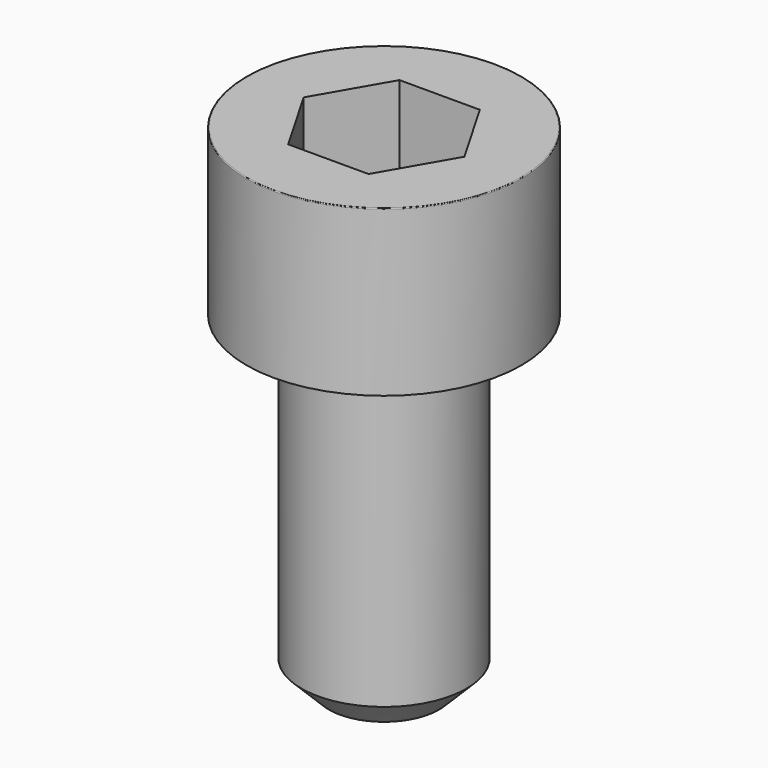
from build123d import *

# Parameters (mm, degrees)
POCKET_DEPTH = 5.06


with BuildPart() as part:
    # Sketch → Revolve (revolve)
    with BuildSketch(Plane.YZ):
        with BuildLine():
            Line((2.999, 0), (5, 0))
            Line((5, 0), (5, 5.97229))
            ThreePointArc((5, 5.97229), (4.991884, 5.991884), (4.97229, 6))
            Line((4.97229, 6), (0, 6))
            Line((0, -12), (0, 6))
            Line((2, -12), (0, -12))
            Line((3, -11), (2, -12))
            Line((3, -0.2), (3, -11))
            Line((2.999, 0), (3, -0.2))
        make_face()
    revolve(axis=Axis((0, 0, 0), (0, 0, 1)))

    # Sketch001 → Pocket (cut)
    with BuildSketch(Plane.XY.offset(6)):
        Polygon((2.921392, 0), (1.460696, 2.53), (-1.460696, 2.53), (-2.921392, 0), (-1.460696, -2.53), (1.460696, -2.53), align=None)
    extrude(amount=-POCKET_DEPTH, mode=Mode.SUBTRACT)


solid = part.part
